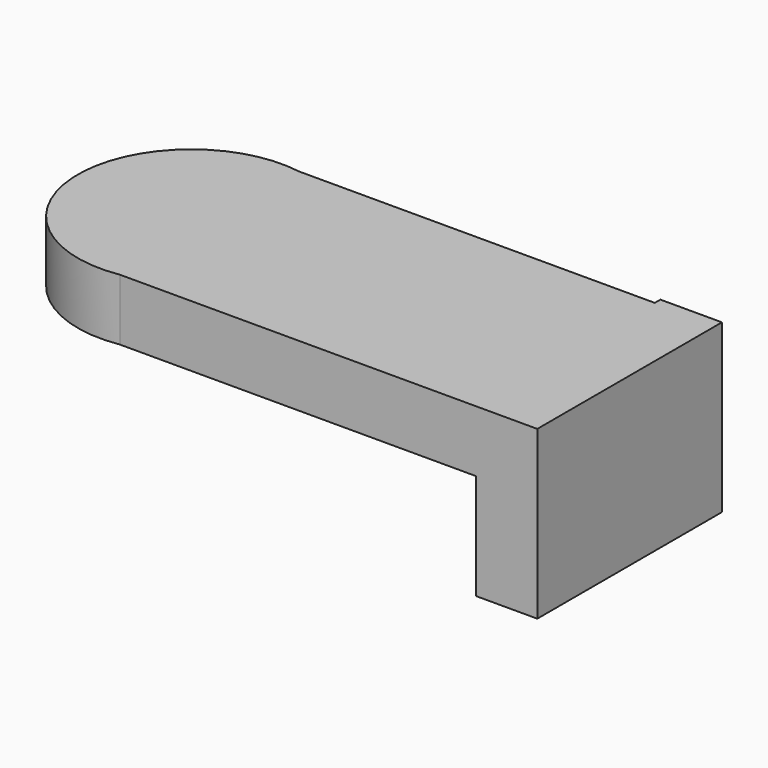
from build123d import *

# Parameters (mm, degrees)
F1_DEPTH = 25.4
F2_W     = 92.387616
F2_H     = 25.4
F3_DEPTH = 25.4


with BuildPart() as f1:
    # F0 (on Top) → F1 (new body)
    with BuildSketch(Plane.XY):
        with BuildLine():
            Line((-77.236012, -46.193808), (-69.710971, -46.193808))
            ThreePointArc((-69.710971, -46.193808), (-41.580111, -30.317502), (-30.433296, 0))
            ThreePointArc((-30.433296, 0), (-41.580111, 30.317502), (-69.710971, 46.193808))
            Line((-69.710971, 46.193808), (-77.236012, 46.193808))
            Line((-77.236012, 46.193808), (-77.236012, -46.193808))
        make_face()
        with BuildLine():
            Line((-69.710971, -46.193808), (77.236012, -46.193808))
            Line((77.236012, -46.193808), (77.236012, 46.193808))
            Line((77.236012, 46.193808), (-69.710971, 46.193808))
            ThreePointArc((-69.710971, 46.193808), (-41.580111, 30.317502), (-30.433296, 0))
            ThreePointArc((-30.433296, 0), (-41.580111, -30.317502), (-69.710971, -46.193808))
        make_face()
        with BuildLine():
            ThreePointArc((-69.710971, 46.193808), (-124.038727, 0), (-69.710971, -46.193808))
            Line((-69.710971, -46.193808), (-77.236012, -46.193808))
            Line((-77.236012, -46.193808), (-77.236012, 46.193808))
            Line((-77.236012, 46.193808), (-69.710971, 46.193808))
        make_face()
        with BuildLine():
            Line((-69.710971, -46.193808), (77.236012, -46.193808))
            Line((77.236012, -46.193808), (77.236012, 46.193808))
            Line((77.236012, 46.193808), (-69.710971, 46.193808))
            ThreePointArc((-69.710971, 46.193808), (-41.580111, 30.317502), (-30.433296, 0))
            ThreePointArc((-30.433296, 0), (-41.580111, -30.317502), (-69.710971, -46.193808))
        make_face()
        with BuildLine():
            ThreePointArc((-69.710971, 46.193808), (-124.038727, 0), (-69.710971, -46.193808))
            Line((-69.710971, -46.193808), (-77.236012, -46.193808))
            Line((-77.236012, -46.193808), (-77.236012, 46.193808))
            Line((-77.236012, 46.193808), (-69.710971, 46.193808))
        make_face()
    extrude(amount=F1_DEPTH)

    # F2 (on face) → F3 (join)
    with BuildSketch(Plane.YZ.offset(77.236012)):
        Polygon((49.108163, 25.4), (46.193808, 25.4), (46.193808, 0), (-46.193808, 0), (-46.193808, -43.602347), (49.108163, -43.602347), align=None)
        with Locations((0, 12.7)):
            Rectangle(F2_W, F2_H)
    extrude(amount=F3_DEPTH)


solid = f1.part
